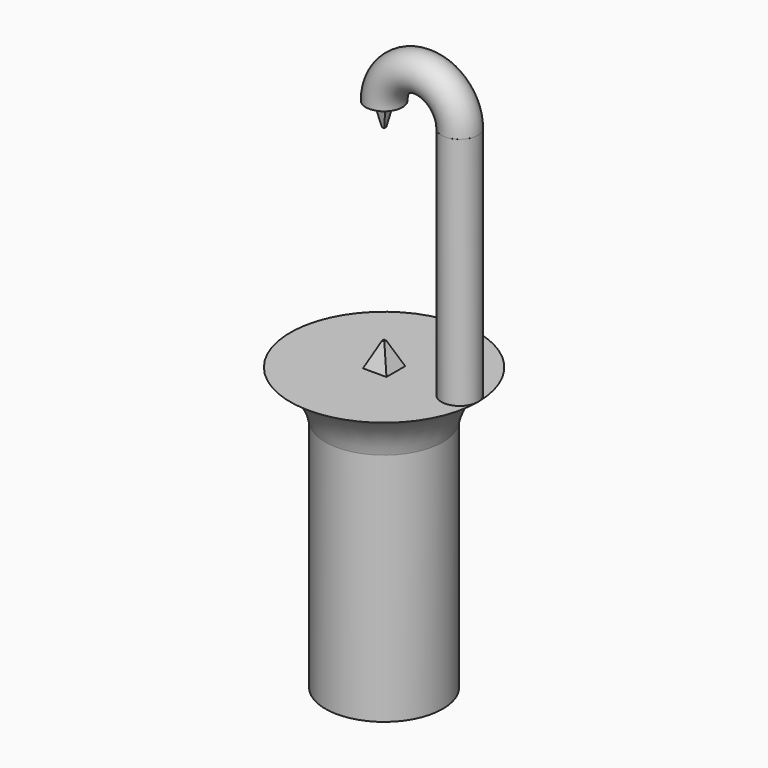
from build123d import *

# Parameters (mm, degrees)
F0_W     = 31.75
F0_H     = 127
F2_R     = 9.8908810496
F3_DEPTH = 127
F4_W     = 12.7
F4_H     = 12.7
F6_W     = 1.27
F6_H     = 1.27
F8_R     = 9.8775603936
F9_ANGLE = 180
F12_W    = 6.35
F12_H    = 6.35
F11_W    = 1.27
F11_H    = 1.27


with BuildPart() as f1:
    # F0 (on Front) → F1 (revolve)
    with BuildSketch(Plane.XZ):
        with BuildLine():
            Line((0, 152.4), (0, 127))
            Line((0, 127), (31.75, 127))
            ThreePointArc((31.75, 127), (38.1902000249, 142.0135999813), (50.8, 152.4))
            Line((50.8, 152.4), (0, 152.4))
        make_face()
        with Locations((15.875, 63.5)):
            Rectangle(F0_W, F0_H)
    revolve(axis=Axis((0, 0, 63.5), (0, 0, 1)))

    # F2 (on face) → F3 (join)
    with BuildSketch(Plane.XY.offset(152.4)):
        with Locations((40.9091189504, 0)):
            Circle(F2_R)
    extrude(amount=F3_DEPTH)

    # F4 (on face) → F7 section 0
    with BuildSketch(Plane.XY.offset(152.4)):
        Rectangle(F4_W, F4_H)
    # F6 (on offset) → F7 section 1
    with BuildSketch(Plane.XY.offset(165.1)):
        Rectangle(F6_W, F6_H)
    loft()

    # F8 (on face) → F9 (revolve)
    with BuildSketch(Plane.XY.offset(279.4)):
        with Locations((40.9091189504, 0)):
            Circle(F8_R)
    revolve(axis=Axis((20.4545594752, 1.762766391, 279.4), (0, -1, 0)), revolution_arc=F9_ANGLE)

    # F12 (on face) → F13 section 0
    with BuildSketch(Plane(origin=(0, 0, 279.4), x_dir=(1, 0, 0), z_dir=(0, 0, -1))):
        Rectangle(F12_W, F12_H)
    # F11 (on offset) → F13 section 1
    with BuildSketch(Plane(origin=(0, 0, 266.7), x_dir=(1, 0, 0), z_dir=(0, 0, -1))):
        Rectangle(F11_W, F11_H)
    loft()


solid = f1.part
